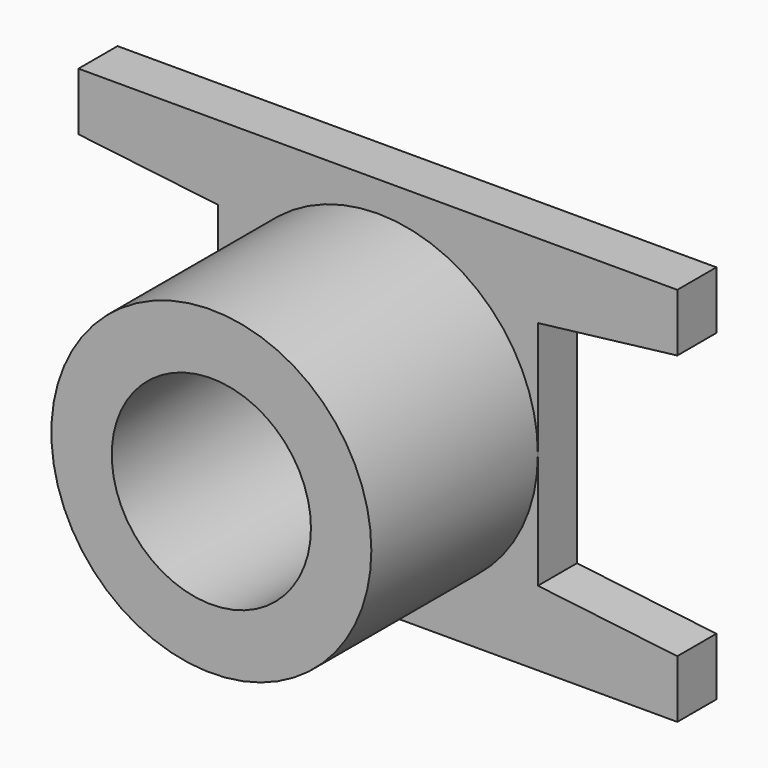
from build123d import *

# Parameters (mm, degrees)
F0_W     = 11.8364
F0_H     = 7.5184
F1_DEPTH = 0.9652
F2_R     = 3.1623
F3_DEPTH = 4.1148
F4_R     = 1.9685
F5_DEPTH = 5.081
F7_DEPTH = 0.9662


with BuildPart() as f1:
    # F0 (on Front) → F1 (new body)
    with BuildSketch(Plane.XZ):
        Rectangle(F0_W, F0_H)
    extrude(amount=F1_DEPTH)

    # F2 (on face) → F3 (join)
    with BuildSketch(Plane.XZ.offset(0.9652)):
        Circle(F2_R)
    extrude(amount=F3_DEPTH)

    # F4 (on face) → F5 (cut, through all)
    with BuildSketch(Plane.XZ.offset(5.08)):
        Circle(F4_R)
    extrude(amount=-F5_DEPTH, mode=Mode.SUBTRACT)

    # F6 (on face) → F7 (cut, through all)
    with BuildSketch(Plane.XZ.offset(0.9652)):
        Polygon((-3.1623, -2.286), (-3.1623, 0), (-3.1623, 2.286), (-5.9182, 2.6162), (-5.9182, -2.6162), align=None)
        Polygon((3.1623, 2.286), (3.1623, 0), (3.1623, -2.286), (5.9182, -2.6162), (5.9182, 2.6162), align=None)
    extrude(amount=-F7_DEPTH, mode=Mode.SUBTRACT)


solid = f1.part
